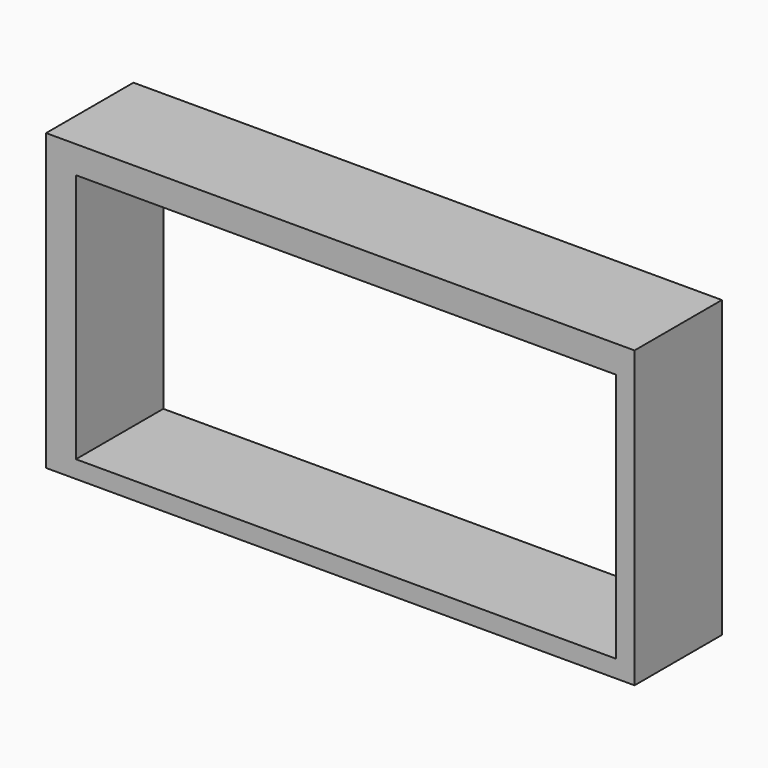
from build123d import *

# Parameters (mm, degrees)
F0_W     = 125.585321
F0_H     = 58.162786
F1_DEPTH = 25.4


with BuildPart() as f1:
    # F0 (on Front) → F1 (new body)
    with BuildSketch(Plane.XZ):
        Polygon((85.79734, 28.936708), (-51.07329, 28.936708), (-51.07329, -39.643291), (85.80731, -39.643291), align=None)
        with Locations((18.664179, -6.510761)):
            Rectangle(F0_W, F0_H, mode=Mode.SUBTRACT)
    extrude(amount=F1_DEPTH)


solid = f1.part
